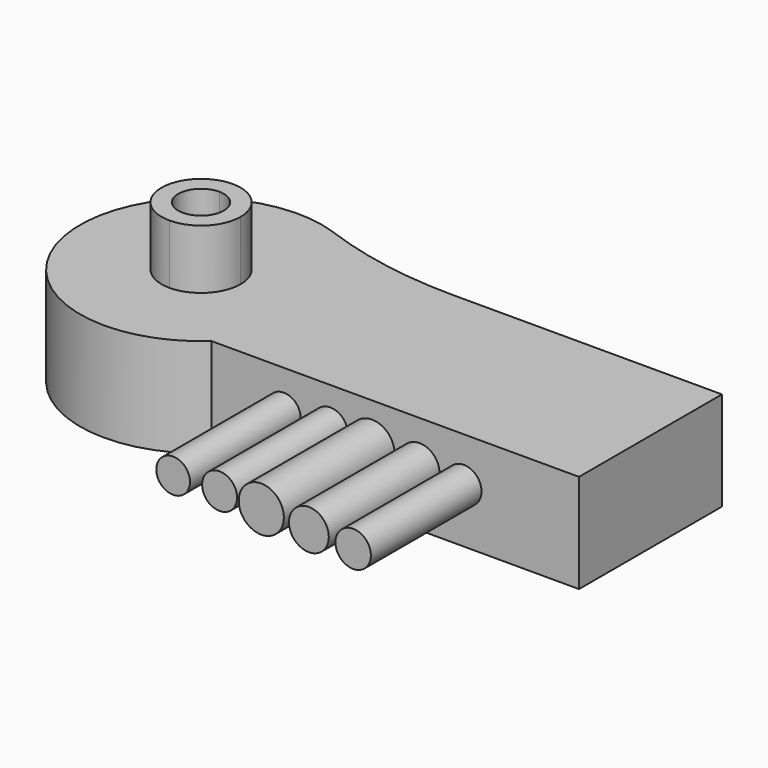
from build123d import *

# Parameters (mm, degrees)
F1_DEPTH = 25
F2_DEPTH = 40
F3_R     = 4.2635703771
F3_R_2   = 4.4209569703
F3_R_3   = 5.7038712212
F3_R_4   = 5.0393730087
F3_R_5   = 4.4825585926
F4_DEPTH = 35


with BuildPart() as f1:
    # F0 (on Top) → F1 (new body)
    with BuildSketch(Plane.XY):
        with BuildLine():
            Line((59.1363360627, 21.0431396319), (-9.0397706609, 21.0431396319))
            Line((-9.0397706609, 21.0431396319), (-33.8688298197, 21.0431396319))
            ThreePointArc((-33.8688298197, 21.0431396319), (-26.514710402, 10.7942984973), (-23.916338801, -1.5495372936))
            ThreePointArc((-23.916338801, -1.5495372936), (-26.514710402, -13.8933730846), (-33.8688298197, -24.1422142191))
            Line((-33.8688298197, -24.1422142191), (59.1363360627, -24.1422142191))
            Line((59.1363360627, -24.1422142191), (59.1363360627, 21.0431396319))
        make_face()
        with BuildLine():
            Line((-33.8688298197, 21.0431396319), (-9.0397706609, 21.0431396319))
            ThreePointArc((-9.0397706609, 21.0431396319), (-26.8191272876, 22.5995217448), (-44.0576535234, 27.2213244839))
            ThreePointArc((-44.0576535234, 27.2213244839), (-38.6598110486, 24.6326381152), (-33.8688298197, 21.0431396319))
        make_face()
        with BuildLine():
            ThreePointArc((-23.916338801, -1.5495372936), (-26.514710402, 10.7942984973), (-33.8688298197, 21.0431396319))
            Line((-33.8688298197, 21.0431396319), (-54.5358654598, 21.0431396319))
            Line((-54.5358654598, 21.0431396319), (-54.5358654598, 8.4504627064))
            ThreePointArc((-54.5358654598, 8.4504627064), (-47.4647976479, 5.5215305183), (-44.5358654598, -1.5495372936))
            ThreePointArc((-44.5358654598, -1.5495372936), (-47.4647976479, -8.6206051055), (-54.5358654598, -11.5495372936))
            Line((-54.5358654598, -11.5495372936), (-54.5358654598, -24.1422142191))
            Line((-54.5358654598, -24.1422142191), (-33.8688298197, -24.1422142191))
            ThreePointArc((-33.8688298197, -24.1422142191), (-26.514710402, -13.8933730846), (-23.916338801, -1.5495372936))
        make_face()
        with BuildLine():
            Line((-54.5358654598, 21.0431396319), (-33.8688298197, 21.0431396319))
            ThreePointArc((-33.8688298197, 21.0431396319), (-38.6598110486, 24.6326381152), (-44.0576535234, 27.2213244839))
            ThreePointArc((-44.0576535234, 27.2213244839), (-84.5701773159, -7.5073493192), (-33.8688298197, -24.1422142191))
            Line((-33.8688298197, -24.1422142191), (-54.5358654598, -24.1422142191))
            Line((-54.5358654598, -24.1422142191), (-54.5358654598, -11.5495372936))
            ThreePointArc((-54.5358654598, -11.5495372936), (-64.5358654598, -1.5495372936), (-54.5358654598, 8.4504627064))
            Line((-54.5358654598, 8.4504627064), (-54.5358654598, 21.0431396319))
        make_face()
    extrude(amount=F1_DEPTH)

    # F3 (on face) → F4 (join, symmetric)
    with BuildSketch(Plane.XZ.offset(24.1422142191)):
        with Locations((-15.5279319733, 15.2088273317)):
            Circle(F3_R)
        with Locations((-3.7714142818, 15.5820492655)):
            Circle(F3_R_2)
        with Locations((6.7721279338, 15.0222163647)):
            Circle(F3_R_3)
        with Locations((18.8085604459, 14.3690761179)):
            Circle(F3_R_4)
        with Locations((30.0052445382, 13.715935871)):
            Circle(F3_R_5)
        with Locations((30.0052445382, 13.715935871)):
            Circle(F3_R_5)
    extrude(amount=F4_DEPTH, both=True)


with BuildPart() as f2:
    # F0 (on Top) → F2 (new body)
    with BuildSketch(Plane.XY):
        with BuildLine():
            ThreePointArc((-44.5358654598, -1.5495372936), (-47.4647976479, 5.5215305183), (-54.5358654598, 8.4504627064))
            Line((-54.5358654598, 8.4504627064), (-54.5358654598, 4.2107247108))
            ThreePointArc((-54.5358654598, 4.2107247108), (-50.462745135, 2.5235830311), (-48.7756034554, -1.5495372936))
            ThreePointArc((-48.7756034554, -1.5495372936), (-50.462745135, -5.6226576183), (-54.5358654598, -7.309799298))
            Line((-54.5358654598, -7.309799298), (-54.5358654598, -11.5495372936))
            ThreePointArc((-54.5358654598, -11.5495372936), (-47.4647976479, -8.6206051055), (-44.5358654598, -1.5495372936))
        make_face()
        with BuildLine():
            Line((-54.5358654598, 4.2107247108), (-54.5358654598, 8.4504627064))
            ThreePointArc((-54.5358654598, 8.4504627064), (-64.5358654598, -1.5495372936), (-54.5358654598, -11.5495372936))
            Line((-54.5358654598, -11.5495372936), (-54.5358654598, -7.309799298))
            ThreePointArc((-54.5358654598, -7.309799298), (-60.2961274642, -1.5495372936), (-54.5358654598, 4.2107247108))
        make_face()
    extrude(amount=F2_DEPTH)


solid = Compound([f1.part, f2.part])
